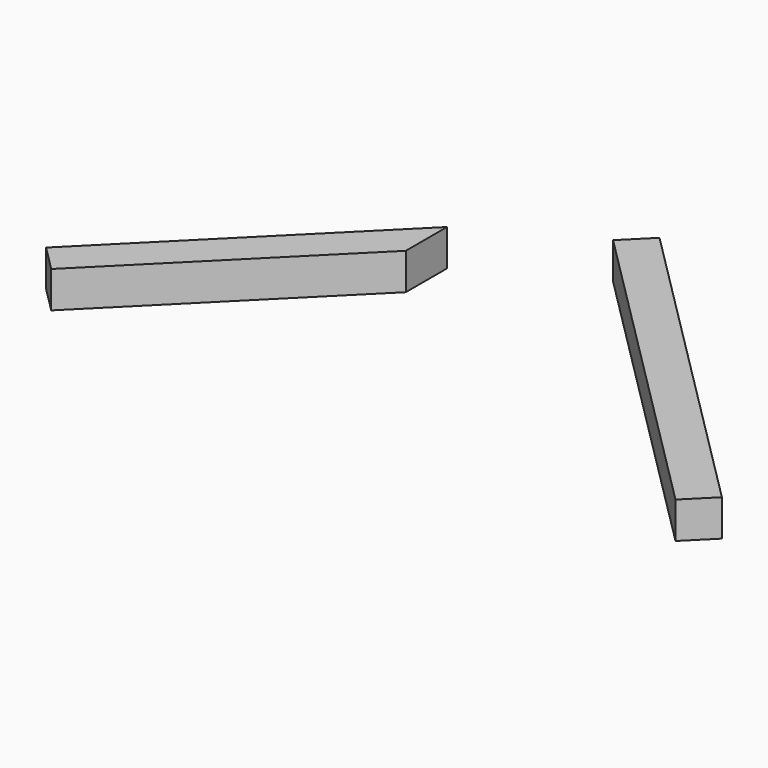
from build123d import *

# Parameters (mm, degrees)
F1_DEPTH = 19


with BuildPart() as f1:
    # F0 (on Top) → F1 (new body)
    with BuildSketch(Plane.XY):
        Polygon((-260, -33.1299423149), (-376.0695885154, -149.1995308304), (-362.6345596729, -162.6345596729), (-260, -60), align=None)
    extrude(amount=-F1_DEPTH)


with BuildPart() as f1b:
    # F0 (on Top) → F1, piece 2 (new body)
    with BuildSketch(Plane.XY):
        Polygon((-186.5649711575, 13.4350288425), (-200, 0), (-177.5, -22.5), (-150.6299423149, -22.5), align=None)
        Polygon((-150.6299423149, -22.5), (-177.5, -22.5), (-140, -60), (-140, -33.1299423149), align=None)
        Polygon((-140, -33.1299423149), (-140, -60), (-37.3654403271, -162.6345596729), (-23.9304114845, -149.1995308304), align=None)
    extrude(amount=-F1_DEPTH)


solid = Compound([f1.part, f1b.part])
